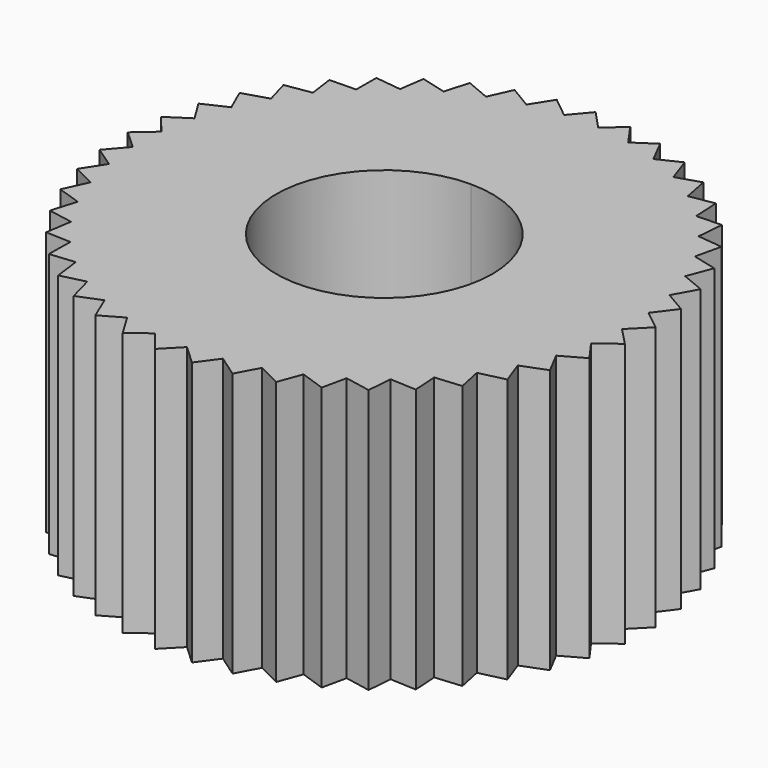
from build123d import *

# Parameters (mm, degrees)
F0_R     = 25.4
F1_DEPTH = 25.4
F3_DEPTH = 25.4
F4_DEPTH = 25.4


with BuildPart() as f1:
    # F0 (on Top) → F1 (new body)
    with BuildSketch(Plane.XY):
        Circle(F0_R)
    extrude(amount=F1_DEPTH)

    # F2 (on face) → F3 (cut)
    with BuildSketch(Plane.XY.offset(25.4)):
        with BuildLine():
            Line((-3.3733606068, -23.3670165801), (-5.2809569468, -24.8449490586))
            ThreePointArc((-5.2809569468, -24.8449490586), (-3.5349967644, -25.152808946), (-1.7718144331, -25.3381268766))
            Line((-1.7718144331, -25.3381268766), (-3.3733606068, -23.3670165801))
        make_face()
        with BuildLine():
            Line((-0.0884711356, -23.6090914373), (-1.7718144331, -25.3381268766))
            ThreePointArc((-1.7718144331, -25.3381268766), (0, -25.4), (1.7718144331, -25.3381268766))
            Line((1.7718144331, -25.3381268766), (-0.0884711356, -23.6090914373))
        make_face()
        with BuildLine():
            ThreePointArc((1.7718144331, -25.3381268766), (3.5349967644, -25.152808946), (5.2809569468, -24.8449490586))
            Line((5.2809569468, -24.8449490586), (3.1981403256, -23.3916421847))
            Line((3.1981403256, -23.3916421847), (1.7718144331, -25.3381268766))
        make_face()
        with BuildLine():
            ThreePointArc((5.2809569468, -24.8449490586), (7.0011888378, -24.4160470768), (8.6873116405, -23.868192568))
            Line((8.6873116405, -23.868192568), (6.4225036232, -22.7189012245))
            Line((6.4225036232, -22.7189012245), (5.2809569468, -24.8449490586))
        make_face()
        with BuildLine():
            ThreePointArc((8.6873116405, -23.868192568), (10.3311107341, -23.2040546241), (11.9245776948, -22.4268688586))
            Line((11.9245776948, -22.4268688586), (9.5218601932, -21.6039626944))
            Line((9.5218601932, -21.6039626944), (8.6873116405, -23.868192568))
        make_face()
        with BuildLine():
            ThreePointArc((11.9245776948, -22.4268688586), (13.4599493115, -21.5404216424), (14.9297454082, -20.5490316571))
            Line((14.9297454082, -20.5490316571), (12.4358845856, -20.0685276045))
            Line((12.4358845856, -20.0685276045), (11.9245776948, -22.4268688586))
        make_face()
        with BuildLine():
            ThreePointArc((14.9297454082, -20.5490316571), (16.326805286, -19.4575288552), (17.6443226097, -18.2712309286))
            Line((17.6443226097, -18.2712309286), (15.1078586301, -18.1424814524))
            Line((15.1078586301, -18.1424814524), (14.9297454082, -20.5490316571))
        make_face()
        with BuildLine():
            ThreePointArc((17.6443226097, -18.2712309286), (18.8758785671, -16.9959174015), (20.0154731416, -15.6378014733))
            Line((20.0154731416, -15.6378014733), (17.4857753913, -15.8633125357))
            Line((17.4857753913, -15.8633125357), (17.6443226097, -18.2712309286))
        make_face()
        with BuildLine():
            ThreePointArc((20.0154731416, -15.6378014733), (21.0575543429, -14.2034997482), (21.9970452561, -12.7))
            Line((21.9970452561, -12.7), (19.5233514242, -13.2753822847))
            Line((19.5233514242, -13.2753822847), (20.0154731416, -15.6378014733))
        make_face()
        with BuildLine():
            ThreePointArc((21.9970452561, -12.7), (22.829368776, -11.1346271284), (23.550469906, -9.5150074728))
            Line((23.550469906, -9.5150074728), (21.1809276292, -10.429061818))
            Line((21.1809276292, -10.429061818), (21.9970452561, -12.7))
        make_face()
        with BuildLine():
            ThreePointArc((23.550469906, -9.5150074728), (24.1568355139, -7.8490316571), (24.6455114474, -6.1448161482))
            Line((24.6455114474, -6.1448161482), (22.4262411709, -7.3797515259))
            Line((22.4262411709, -7.3797515259), (23.550469906, -9.5150074728))
        make_face()
        with BuildLine():
            ThreePointArc((24.6455114474, -6.1448161482), (25.0141169265, -4.4106637127), (25.2608561424, -2.655022967))
            Line((25.2608561424, -2.655022967), (23.2350534376, -4.1868027647))
            Line((23.2350534376, -4.1868027647), (24.6455114474, -6.1448161482))
        make_face()
        with BuildLine():
            ThreePointArc((25.4, 0), (25.396131457, 0.4432911235), (25.3845270063, 0.8864472162))
            Line((25.3845270063, 0.8864472162), (23.5916218186, -0.9123626502))
            Line((23.5916218186, -0.9123626502), (25.2608561424, -2.655022967))
            ThreePointArc((25.2608561424, -2.655022967), (25.3651901828, -1.3293332886), (25.4, 0))
        make_face()
        with BuildLine():
            ThreePointArc((25.3845270063, 0.8864472162), (25.2608561424, 2.655022967), (25.0141169265, 4.4106637127))
            Line((25.0141169265, 4.4106637127), (23.489006116, 2.3798355656))
            Line((23.489006116, 2.3798355656), (25.3845270063, 0.8864472162))
        make_face()
        with BuildLine():
            ThreePointArc((25.0141169265, 4.4106637127), (24.6455114474, 6.1448161482), (24.1568355139, 7.8490316571))
            Line((24.1568355139, 7.8490316571), (22.9292036277, 5.6257129891))
            Line((22.9292036277, 5.6257129891), (25.0141169265, 4.4106637127))
        make_face()
        with BuildLine():
            ThreePointArc((24.1568355139, 7.8490316571), (23.550469906, 9.5150074728), (22.829368776, 11.1346271284))
            Line((22.829368776, 11.1346271284), (21.9231102724, 8.7620923084))
            Line((21.9231102724, 8.7620923084), (24.1568355139, 7.8490316571))
        make_face()
        with BuildLine():
            ThreePointArc((22.829368776, 11.1346271284), (21.9970452561, 12.7), (21.0575543429, 14.2034997482))
            Line((21.0575543429, 14.2034997482), (20.4903085128, 11.7279274677))
            Line((20.4903085128, 11.7279274677), (22.829368776, 11.1346271284))
        make_face()
        with BuildLine():
            ThreePointArc((21.0575543429, 14.2034997482), (20.0154731416, 15.6378014733), (18.8758785671, 16.9959174015))
            Line((18.8758785671, 16.9959174015), (18.6586862054, 14.4654918592))
            Line((18.6586862054, 14.4654918592), (21.0575543429, 14.2034997482))
        make_face()
        with BuildLine():
            ThreePointArc((18.8758785671, 16.9959174015), (17.6443226097, 18.2712309286), (16.326805286, 19.4575288552))
            Line((16.326805286, 19.4575288552), (16.4638937949, 16.9215019058))
            Line((16.4638937949, 16.9215019058), (18.8758785671, 16.9959174015))
        make_face()
        with BuildLine():
            ThreePointArc((16.326805286, 19.4575288552), (14.9297454082, 20.5490316571), (13.4599493115, 21.5404216424))
            Line((13.4599493115, 21.5404216424), (13.9486504191, 19.0481541658))
            Line((13.9486504191, 19.0481541658), (16.326805286, 19.4575288552))
        make_face()
        with BuildLine():
            ThreePointArc((13.4599493115, 21.5404216424), (11.9245776948, 22.4268688586), (10.3311107341, 23.2040546241))
            Line((10.3311107341, 23.2040546241), (11.1619124293, 20.8040557719))
            Line((11.1619124293, 20.8040557719), (13.4599493115, 21.5404216424))
        make_face()
        with BuildLine():
            ThreePointArc((10.3311107341, 23.2040546241), (8.6873116405, 23.868192568), (7.0011888378, 24.4160470768))
            Line((7.0011888378, 24.4160470768), (8.1579205105, 22.1550300966))
            Line((8.1579205105, 22.1550300966), (10.3311107341, 23.2040546241))
        make_face()
        with BuildLine():
            ThreePointArc((7.0011888378, 24.4160470768), (5.2809569468, 24.8449490586), (3.5349967644, 25.152808946))
            Line((3.5349967644, 25.152808946), (4.9951439484, 23.0747819615))
            Line((4.9951439484, 23.0747819615), (7.0011888378, 24.4160470768))
        make_face()
        with BuildLine():
            ThreePointArc((3.5349967644, 25.152808946), (1.7718144331, 25.3381268766), (0, 25.4))
            Line((0, 25.4), (1.7351425913, 23.5454094427))
            Line((1.7351425913, 23.5454094427), (3.5349967644, 25.152808946))
        make_face()
        with BuildLine():
            Line((-1.5586313426, 23.5577523116), (0, 25.4))
            ThreePointArc((0, 25.4), (-1.7718144331, 25.3381268766), (-3.5349967644, 25.152808946))
            Line((-3.5349967644, 25.152808946), (-1.5586313426, 23.5577523116))
        make_face()
        with BuildLine():
            Line((-4.8220682904, 23.1115703283), (-3.5349967644, 25.152808946))
            ThreePointArc((-3.5349967644, 25.152808946), (-5.2809569468, 24.8449490586), (-7.0011888378, 24.4160470768))
            Line((-7.0011888378, 24.4160470768), (-4.8220682904, 23.1115703283))
        make_face()
        with BuildLine():
            Line((-7.9916491639, 22.2155479176), (-7.0011888378, 24.4160470768))
            ThreePointArc((-7.0011888378, 24.4160470768), (-8.6873116405, 23.868192568), (-10.3311107341, 23.2040546241))
            Line((-10.3311107341, 23.2040546241), (-7.9916491639, 22.2155479176))
        make_face()
        with BuildLine():
            Line((-11.0056816768, 20.8871251365), (-10.3311107341, 23.2040546241))
            ThreePointArc((-10.3311107341, 23.2040546241), (-11.9245776948, 22.4268688586), (-13.4599493115, 21.5404216424))
            Line((-13.4599493115, 21.5404216424), (-11.0056816768, 20.8871251365))
        make_face()
        with BuildLine():
            Line((-13.8055011147, 19.1521582233), (-13.4599493115, 21.5404216424))
            ThreePointArc((-13.4599493115, 21.5404216424), (-14.9297454082, 20.5490316571), (-16.326805286, 19.4575288552))
            Line((-16.326805286, 19.4575288552), (-13.8055011147, 19.1521582233))
        make_face()
        with BuildLine():
            Line((-16.3366121768, 17.0444163356), (-16.326805286, 19.4575288552))
            ThreePointArc((-16.326805286, 19.4575288552), (-17.6443226097, 18.2712309286), (-18.8758785671, 16.9959174015))
            Line((-18.8758785671, 16.9959174015), (-16.3366121768, 17.0444163356))
        make_face()
        with BuildLine():
            Line((-18.5497496656, 14.6049242717), (-18.8758785671, 16.9959174015))
            ThreePointArc((-18.8758785671, 16.9959174015), (-20.0154731416, 15.6378014733), (-21.0575543429, 14.2034997482))
            Line((-21.0575543429, 14.2034997482), (-18.5497496656, 14.6049242717))
        make_face()
        with BuildLine():
            Line((-20.4018373772, 11.8811639696), (-21.0575543429, 14.2034997482))
            ThreePointArc((-21.0575543429, 14.2034997482), (-21.9970452561, 12.7), (-22.829368776, 11.1346271284))
            Line((-22.829368776, 11.1346271284), (-20.4018373772, 11.8811639696))
        make_face()
        with BuildLine():
            Line((-21.856826531, 8.9261503255), (-22.829368776, 11.1346271284))
            ThreePointArc((-22.829368776, 11.1346271284), (-23.550469906, 9.5150074728), (-24.1568355139, 7.8490316571))
            Line((-24.1568355139, 7.8490316571), (-21.856826531, 8.9261503255))
        make_face()
        with BuildLine():
            Line((-22.8863974181, 5.7973993187), (-24.1568355139, 7.8490316571))
            ThreePointArc((-24.1568355139, 7.8490316571), (-24.6455114474, 6.1448161482), (-25.0141169265, 4.4106637127))
            Line((-25.0141169265, 4.4106637127), (-22.8863974181, 5.7973993187))
        make_face()
        with BuildLine():
            Line((-23.4705106123, 2.5558085286), (-25.0141169265, 4.4106637127))
            ThreePointArc((-25.0141169265, 4.4106637127), (-25.2608561424, 2.655022967), (-25.3845270063, 0.8864472162))
            Line((-25.3845270063, 0.8864472162), (-23.4705106123, 2.5558085286))
        make_face()
        with BuildLine():
            Line((-23.5977970148, -0.7355281674), (-25.3845270063, 0.8864472162))
            ThreePointArc((-25.3845270063, 0.8864472162), (-25.3845270063, -0.8864472162), (-25.2608561424, -2.655022967))
            Line((-25.2608561424, -2.655022967), (-23.5977970148, -0.7355281674))
        make_face()
        with BuildLine():
            Line((-23.2657791405, -4.0125486442), (-25.2608561424, -2.655022967))
            ThreePointArc((-25.2608561424, -2.655022967), (-25.0141169265, -4.4106637127), (-24.6455114474, -6.1448161482))
            Line((-24.6455114474, -6.1448161482), (-23.2657791405, -4.0125486442))
        make_face()
        with BuildLine():
            Line((-22.4809193397, -7.2114694259), (-24.6455114474, -6.1448161482))
            ThreePointArc((-24.6455114474, -6.1448161482), (-24.1568355139, -7.8490316571), (-23.550469906, -9.5150074728))
            Line((-23.550469906, -9.5150074728), (-22.4809193397, -7.2114694259))
        make_face()
        with BuildLine():
            Line((-21.2584940156, -10.2700271581), (-23.550469906, -9.5150074728))
            ThreePointArc((-23.550469906, -9.5150074728), (-22.829368776, -11.1346271284), (-21.9970452561, -12.7))
            Line((-21.9970452561, -12.7), (-21.2584940156, -10.2700271581))
        make_face()
        with BuildLine():
            Line((-19.6222962866, -13.1286904936), (-21.9970452561, -12.7))
            ThreePointArc((-21.9970452561, -12.7), (-21.0575543429, -14.2034997482), (-20.0154731416, -15.6378014733))
            Line((-20.0154731416, -15.6378014733), (-19.6222962866, -13.1286904936))
        make_face()
        with BuildLine():
            Line((-17.6041728805, -15.7318188024), (-20.0154731416, -15.6378014733))
            ThreePointArc((-20.0154731416, -15.6378014733), (-18.8758785671, -16.9959174015), (-17.6443226097, -18.2712309286))
            Line((-17.6443226097, -18.2712309286), (-17.6041728805, -15.7318188024))
        make_face()
        with BuildLine():
            Line((-15.2434042737, -18.0287451529), (-17.6443226097, -18.2712309286))
            ThreePointArc((-17.6443226097, -18.2712309286), (-16.326805286, -19.4575288552), (-14.9297454082, -20.5490316571))
            Line((-14.9297454082, -20.5490316571), (-15.2434042737, -18.0287451529))
        make_face()
        with BuildLine():
            Line((-12.5859401418, -19.9747624863), (-14.9297454082, -20.5490316571))
            ThreePointArc((-14.9297454082, -20.5490316571), (-13.4599493115, -21.5404216424), (-11.9245776948, -22.4268688586))
            Line((-11.9245776948, -22.4268688586), (-12.5859401418, -19.9747624863))
        make_face()
        with BuildLine():
            Line((-9.6835050014, -21.5319937889), (-11.9245776948, -22.4268688586))
            ThreePointArc((-11.9245776948, -22.4268688586), (-10.3311107341, -23.2040546241), (-8.6873116405, -23.868192568))
            Line((-8.6873116405, -23.868192568), (-9.6835050014, -21.5319937889))
        make_face()
        with BuildLine():
            Line((-6.5925914509, -22.6701293247), (-8.6873116405, -23.868192568))
            ThreePointArc((-8.6873116405, -23.868192568), (-7.0011888378, -24.4160470768), (-5.2809569468, -24.8449490586))
            Line((-5.2809569468, -24.8449490586), (-6.5925914509, -22.6701293247))
        make_face()
    extrude(amount=-F3_DEPTH, mode=Mode.SUBTRACT)

    # F2 (on face) → F4 (cut)
    with BuildSketch(Plane.XY.offset(25.4)):
        with BuildLine():
            ThreePointArc((10.3984196314, 0), (7.352793035, 7.352793035), (0, 10.3984196314))
            ThreePointArc((0, 10.3984196314), (-7.352793035, -7.352793035), (10.3984196314, 0))
        make_face()
    extrude(amount=-F4_DEPTH, mode=Mode.SUBTRACT)


solid = f1.part
